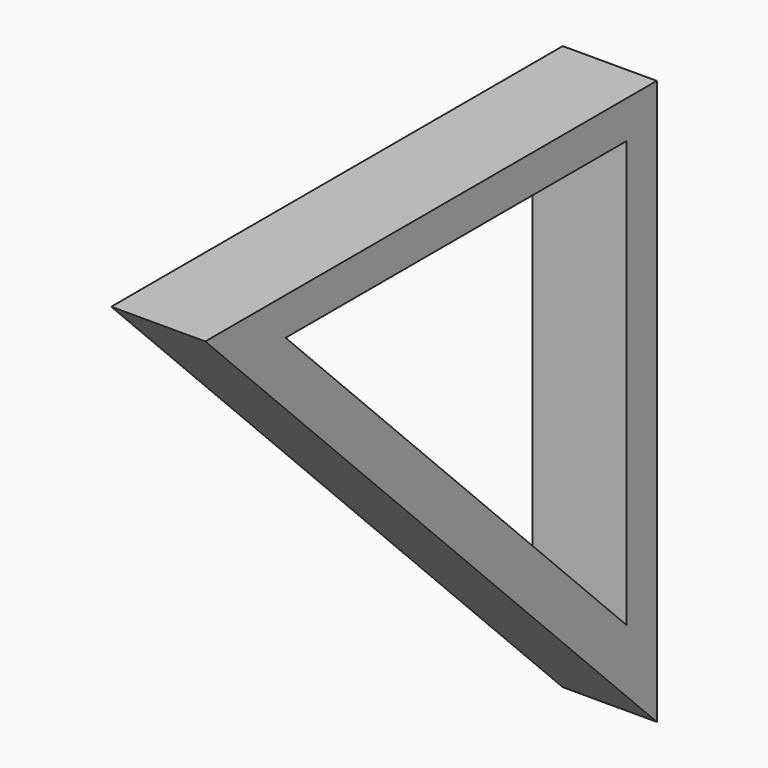
from build123d import *

# Parameters (mm, degrees)
F1_DEPTH = 25


with BuildPart() as f1:
    # F0 (on Right) → F1 (new body)
    with BuildSketch(Plane.YZ):
        Polygon((-57.0327825844, 10), (-73.7252708524, 10), (-63.7252708524, 0), (-47.0327825844, 0), align=None)
        Polygon((76.2747291476, 10), (-57.0327825844, 10), (-47.0327825844, 0), (66.2747291476, 0), (76.2747291476, 0), align=None)
        Polygon((76.2747291476, -123.307511732), (76.2747291476, 0), (66.2747291476, 0), (66.2747291476, -113.307511732), align=None)
        Polygon((66.2747291476, -113.307511732), (66.2747291476, -130), (76.2747291476, -140), (76.2747291476, -123.307511732), align=None)
        Polygon((-47.0327825844, 0), (-63.7252708524, 0), (66.2747291476, -130), (66.2747291476, -113.307511732), align=None)
    extrude(amount=F1_DEPTH)


solid = f1.part
